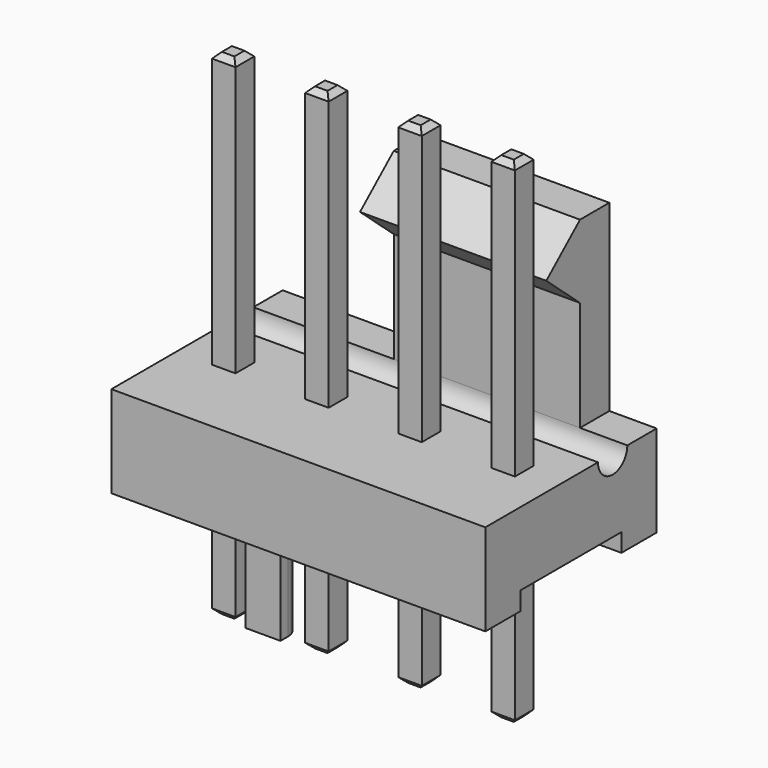
from build123d import *

# Parameters (mm, degrees)
SKETCH_W          = 10.2
SKETCH_H          = 5.84
PAD_DEPTH         = 2.5
SKETCH001_W       = 5.08
SKETCH001_H       = 1
PAD001_DEPTH      = 5
PAD002_DEPTH      = 5.08
POCKET_DEPTH      = 10.201
SKETCH017_W       = 3.44
SKETCH017_H       = 0.5
POCKET001_DEPTH   = 10.201
PAD007_DEPTH      = 2.3
SKETCH011_W       = 0.64
SKETCH011_H       = 0.64
PAD003_DEPTH      = 10
PAD003_DEPTH_BACK = 3.5
CHAMFER_SIZE      = 0.15
CHAMFER004_SIZE   = 0.15
SKETCH012_W       = 0.64
SKETCH012_H       = 0.64
PAD004_DEPTH      = 10
PAD004_DEPTH_BACK = 3.5
CHAMFER001_SIZE   = 0.15
CHAMFER005_SIZE   = 0.15
SKETCH013_W       = 0.64
SKETCH013_H       = 0.64
PAD005_DEPTH      = 10
PAD005_DEPTH_BACK = 3.5
CHAMFER002_SIZE   = 0.15
CHAMFER006_SIZE   = 0.15
SKETCH014_W       = 0.64
SKETCH014_H       = 0.64
PAD006_DEPTH      = 10
PAD006_DEPTH_BACK = 3.5
CHAMFER003_SIZE   = 0.15
CHAMFER007_SIZE   = 0.15


with BuildPart() as pocket001:
    # Sketch → Pad (new body)
    with BuildSketch(Plane.XY):
        with Locations((-3.81, 0.38)):
            Rectangle(SKETCH_W, SKETCH_H)
    extrude(amount=PAD_DEPTH)

    # Sketch001 → Pad001 (new body)
    with BuildSketch(Plane.XY.offset(2.5)):
        with Locations((-2.54, 2.8)):
            Rectangle(SKETCH001_W, SKETCH001_H)
    extrude(amount=PAD001_DEPTH)

    # Sketch002 → Pad002 (new body)
    with BuildSketch(Plane.YZ):
        Polygon((2.3, 7.5), (2.3, 5.5), (1.15, 6.5), align=None)
    extrude(amount=-PAD002_DEPTH)

    # Sketch015 → Pocket (cut, through all)
    with BuildSketch(Plane.YZ.offset(1.29)):
        with BuildLine():
            ThreePointArc((1.3, 2.5), (1.8, 2), (2.3, 2.5))
            Line((1.3, 2.5), (2.3, 2.5))
        make_face()
    extrude(amount=-POCKET_DEPTH, mode=Mode.SUBTRACT)

    # Sketch017 → Pocket001 (cut, through all)
    with BuildSketch(Plane.YZ.offset(1.29)):
        with Locations((0.38, 0.25)):
            Rectangle(SKETCH017_W, SKETCH017_H)
    extrude(amount=-POCKET001_DEPTH, mode=Mode.SUBTRACT)


with BuildPart() as pad007:
    # Sketch018 → Pad007 (new body)
    with BuildSketch(Plane.XY):
        with BuildLine():
            Line((-4.605, -2.15662), (-4.605, -1.90662))
            ThreePointArc((-4.605, -1.90662), (-5.08, -1.43162), (-5.555, -1.90662))
            Line((-5.555, -1.90662), (-5.555, -2.15662))
            Line((-5.555, -2.15662), (-4.605, -2.15662))
        make_face()
    extrude(amount=-PAD007_DEPTH)


with BuildPart() as chamfer004:
    # Sketch011 → Pad003 (new body, two sides)
    with BuildSketch(Plane.XY) as pad003_sk:
        Rectangle(SKETCH011_W, SKETCH011_H)
    extrude(amount=PAD003_DEPTH)
    extrude(pad003_sk.sketch, amount=-PAD003_DEPTH_BACK)

    # Chamfer
    chamfer_edges = [chamfer004.edges().sort_by_distance(p)[0] for p in [
        (0, 0.32, 10),
        (0.32, 0, 10),
        (0, -0.32, 10),
        (-0.32, 0, 10),
    ]]
    chamfer(chamfer_edges, length=CHAMFER_SIZE)

    # Chamfer004
    chamfer004_edges = [chamfer004.edges().sort_by_distance(p)[0] for p in [
        (0, 0.32, -3.5),
        (0.32, 0, -3.5),
        (0, -0.32, -3.5),
        (-0.32, 0, -3.5),
    ]]
    chamfer(chamfer004_edges, length=CHAMFER004_SIZE)


with BuildPart() as chamfer005:
    # Sketch012 → Pad004 (new body, two sides)
    with BuildSketch(Plane.XY) as pad004_sk:
        with Locations((-2.54, 0)):
            Rectangle(SKETCH012_W, SKETCH012_H)
    extrude(amount=PAD004_DEPTH)
    extrude(pad004_sk.sketch, amount=-PAD004_DEPTH_BACK)

    # Chamfer001
    chamfer001_edges = [chamfer005.edges().sort_by_distance(p)[0] for p in [
        (-2.54, 0.32, 10),
        (-2.22, 0, 10),
        (-2.54, -0.32, 10),
        (-2.86, 0, 10),
    ]]
    chamfer(chamfer001_edges, length=CHAMFER001_SIZE)

    # Chamfer005
    chamfer005_edges = [chamfer005.edges().sort_by_distance(p)[0] for p in [
        (-2.54, 0.32, -3.5),
        (-2.22, 0, -3.5),
        (-2.54, -0.32, -3.5),
        (-2.86, 0, -3.5),
    ]]
    chamfer(chamfer005_edges, length=CHAMFER005_SIZE)


with BuildPart() as chamfer006:
    # Sketch013 → Pad005 (new body, two sides)
    with BuildSketch(Plane.XY) as pad005_sk:
        with Locations((-5.08, 0)):
            Rectangle(SKETCH013_W, SKETCH013_H)
    extrude(amount=PAD005_DEPTH)
    extrude(pad005_sk.sketch, amount=-PAD005_DEPTH_BACK)

    # Chamfer002
    chamfer002_edges = [chamfer006.edges().sort_by_distance(p)[0] for p in [
        (-5.08, 0.32, 10),
        (-4.76, 0, 10),
        (-5.08, -0.32, 10),
        (-5.4, 0, 10),
    ]]
    chamfer(chamfer002_edges, length=CHAMFER002_SIZE)

    # Chamfer006
    chamfer006_edges = [chamfer006.edges().sort_by_distance(p)[0] for p in [
        (-5.08, 0.32, -3.5),
        (-4.76, 0, -3.5),
        (-5.08, -0.32, -3.5),
        (-5.4, 0, -3.5),
    ]]
    chamfer(chamfer006_edges, length=CHAMFER006_SIZE)


with BuildPart() as chamfer007:
    # Sketch014 → Pad006 (new body, two sides)
    with BuildSketch(Plane.XY) as pad006_sk:
        with Locations((-7.62, 0)):
            Rectangle(SKETCH014_W, SKETCH014_H)
    extrude(amount=PAD006_DEPTH)
    extrude(pad006_sk.sketch, amount=-PAD006_DEPTH_BACK)

    # Chamfer003
    chamfer003_edges = [chamfer007.edges().sort_by_distance(p)[0] for p in [
        (-7.62, 0.32, 10),
        (-7.3, 0, 10),
        (-7.62, -0.32, 10),
        (-7.94, 0, 10),
    ]]
    chamfer(chamfer003_edges, length=CHAMFER003_SIZE)

    # Chamfer007
    chamfer007_edges = [chamfer007.edges().sort_by_distance(p)[0] for p in [
        (-7.62, 0.32, -3.5),
        (-7.3, 0, -3.5),
        (-7.62, -0.32, -3.5),
        (-7.94, 0, -3.5),
    ]]
    chamfer(chamfer007_edges, length=CHAMFER007_SIZE)


solid = Compound([pocket001.part, pad007.part, chamfer004.part, chamfer005.part, chamfer006.part, chamfer007.part])
